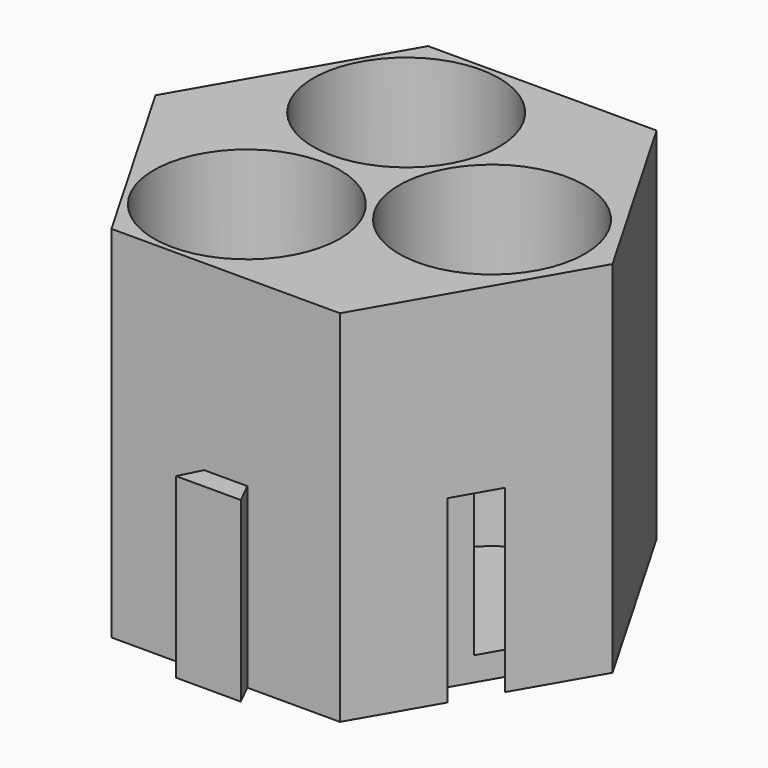
from build123d import *

# Parameters (mm, degrees)
F1_DEPTH = 38.1
F3_DEPTH = 18.796
F5_DEPTH = 19.05
F6_R     = 9.8425
F7_DEPTH = 35.56


with BuildPart() as f1:
    # F0 (on Top) → F1 (new body)
    with BuildSketch(Plane.XY):
        Polygon((-12.0983748909, -20.955), (12.0983748909, -20.955), (24.1967497817, 0), (12.0983748909, 20.955), (-12.0983748909, 20.955), (-24.1967497817, 0), align=None)
    extrude(amount=F1_DEPTH)

    # F2 (on face) → F3 (join)
    with BuildSketch(Plane(origin=(0, 0, 0), x_dir=(1, 0, 0), z_dir=(0, 0, -1))):
        Polygon((-2.286, 20.955), (0, 20.955), (0, 23.241), (-3.429, 23.241), align=None)
        Polygon((0, 23.241), (0, 20.955), (2.286, 20.955), (3.429, 23.241), align=None)
    extrude(amount=-F3_DEPTH)

    # F4 (on face) → F5 (cut)
    with BuildSketch(Plane(origin=(0, 0, 0), x_dir=(1, 0, 0), z_dir=(0, 0, -1))):
        Polygon((15.9478578107, 9.2075), (18.1475623363, 10.4775), (16.8775623363, 12.6772045256), (14.0428578107, 12.5070567884), align=None)
        Polygon((19.4175623363, 8.2777954744), (18.1475623363, 10.4775), (15.9478578107, 9.2075), (17.8528578107, 5.9079432116), align=None)
    extrude(amount=-F5_DEPTH, mode=Mode.SUBTRACT)

    # F6 (on face) → F7 (cut)
    with BuildSketch(Plane.XY.offset(38.1)):
        with Locations((-6.0858491875, -10.541)):
            Circle(F6_R)
        with Locations((-6.0858491875, 10.541)):
            Circle(F6_R)
        with Locations((11.4346282032, 0)):
            Circle(F6_R)
    extrude(amount=-F7_DEPTH, mode=Mode.SUBTRACT)


solid = f1.part
